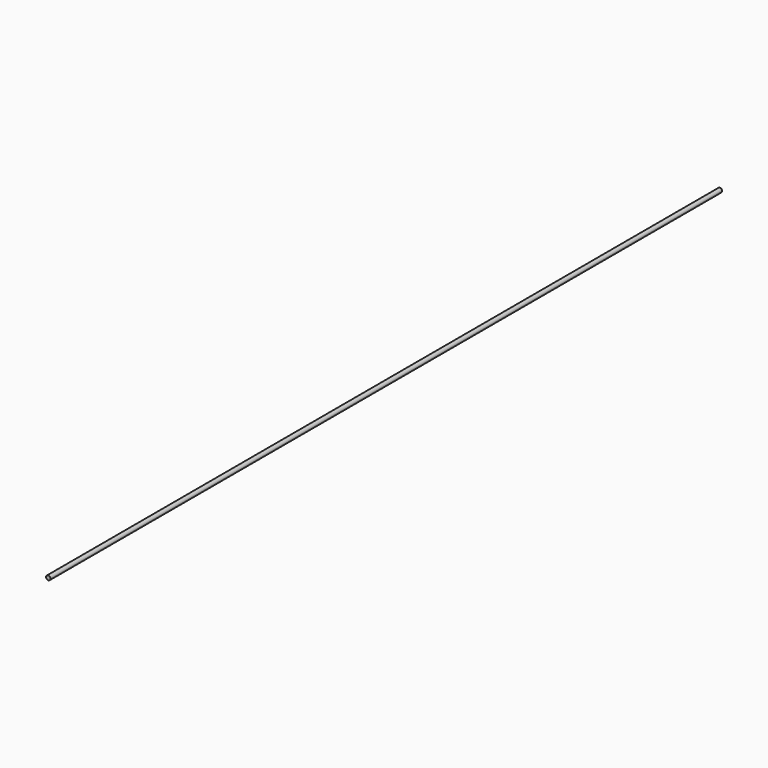
from build123d import *

# Parameters (mm, degrees)
F0_R     = 11
F1_DEPTH = 4270.34547
F3_DEPTH = 12.5


with BuildPart() as f1:
    # F0 (on Front) → F1 (new body)
    with BuildSketch(Plane.XZ):
        Circle(F0_R)
    extrude(amount=F1_DEPTH)

    # F2 (on Right) → F3 (cut, symmetric)
    with BuildSketch(Plane.YZ):
        Polygon((-2.70126, -11), (0, -11), (0, 11), align=None)
    extrude(amount=F3_DEPTH, both=True, mode=Mode.SUBTRACT)


solid = f1.part
